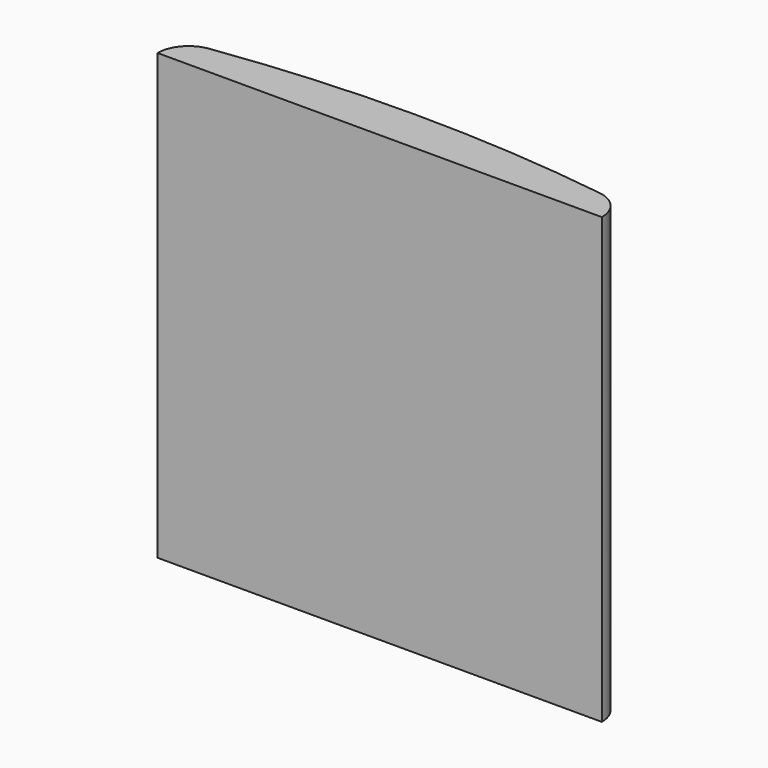
from build123d import *

# Parameters (mm, degrees)
F1_DEPTH = 100


with BuildPart() as f1:
    # F0 (on Top) → F1 (new body)
    with BuildSketch(Plane.XY):
        with BuildLine():
            ThreePointArc((6.027987, 6.932185), (1.717761, 4.593251), (0, 0))
            Line((0, 0), (100, 0))
            ThreePointArc((100, 0), (98.282239, 4.593251), (93.972013, 6.932185))
            ThreePointArc((93.972013, 6.932185), (50, 10), (6.027987, 6.932185))
        make_face()
    extrude(amount=F1_DEPTH)


solid = f1.part
